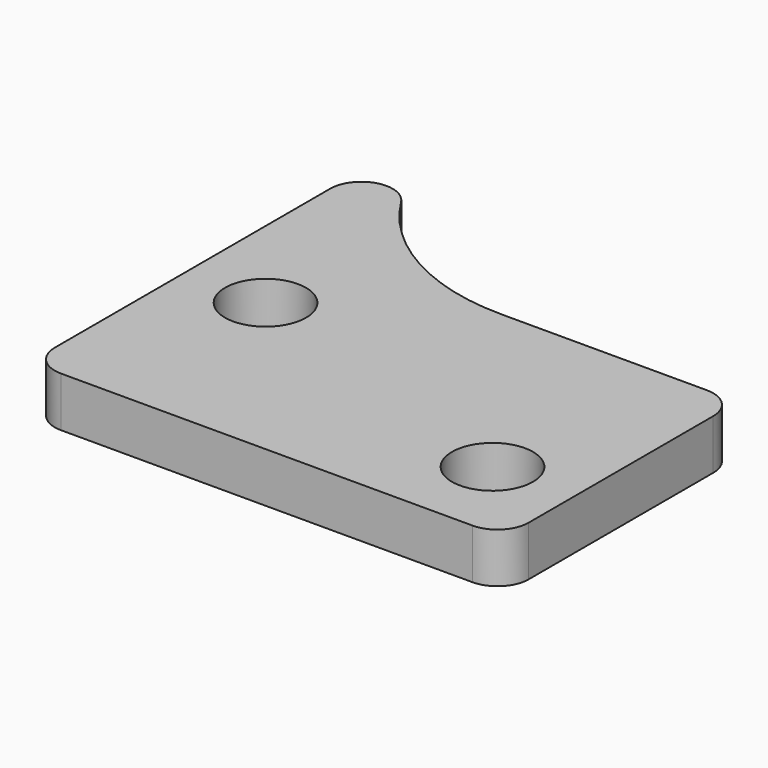
from build123d import *

# Parameters (mm, degrees)
SKETCH_R  = 6.5
PAD_DEPTH = 8


with BuildPart() as part:
    # Sketch → Pad (new body)
    with BuildSketch(Plane.XY):
        with BuildLine():
            ThreePointArc((-28.769231, -18.119916), (-16.430503, -29.7664), (0, -34))
            Line((0, -34), (33, -34))
            ThreePointArc((38, -39), (36.535534, -35.464466), (33, -34))
            Line((38, -39), (38, -76))
            ThreePointArc((33, -81), (36.535534, -79.535534), (38, -76))
            Line((-33, -81), (33, -81))
            ThreePointArc((-38, -76), (-36.535534, -79.535534), (-33, -81))
            Line((-38, -20.78461), (-38, -76))
            ThreePointArc((-28.769231, -18.119916), (-34.38675, -15.980765), (-38, -20.78461))
        make_face()
        with Locations((-25, -50)):
            Circle(SKETCH_R, mode=Mode.SUBTRACT)
        with Locations((25, -67)):
            Circle(SKETCH_R, mode=Mode.SUBTRACT)
    extrude(amount=PAD_DEPTH)


solid = part.part
